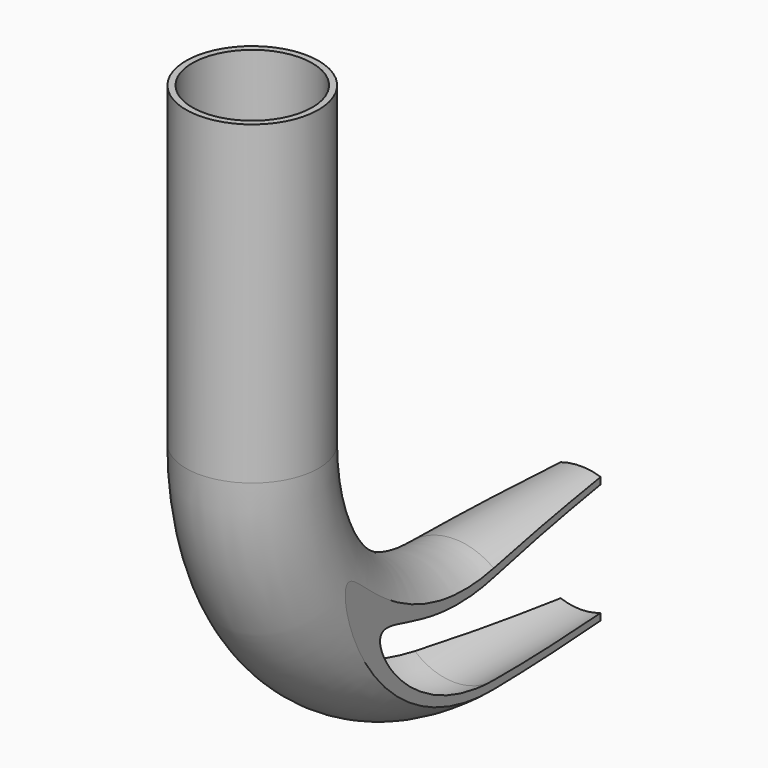
from build123d import *

# Parameters (mm, degrees)
F1_R     = 21
F1_R_2   = 19
F3_DEPTH = 100
F4_DEPTH = 50
F7_DEPTH = 100


with BuildPart() as f2:
    # F2: sweep along a path in F0
    with BuildLine(Plane.YZ) as f2_path:
        ThreePointArc((0, -80), (-56.5685424949, -56.5685424949), (-80, 0))
    # F1 (on Top) → F2 (sweep)
    with BuildSketch(Plane.XY):
        with Locations((0, -80.018363893)):
            Circle(F1_R)
        with Locations((0, -80.018363893)):
            Circle(F1_R_2, mode=Mode.SUBTRACT)
    sweep(path=f2_path.line)

    # F3 (add): a face of the model
    f3_faces = [f2.faces().sort_by_distance(p)[0] for p in [
        (-20.4060303038, -80.018363893, 0),
    ]]
    extrude(f3_faces, amount=F3_DEPTH)

    # F4 (add): a face of the model
    f4_faces = [f2.faces().sort_by_distance(p)[0] for p in [
        (-20.4060303038, 0, -80.018363893),
    ]]
    extrude(f4_faces, amount=F4_DEPTH)


with BuildPart() as f7:
    # F6 (on face) → F7 (new body, symmetric)
    with BuildSketch(Plane.XY.offset(-80.018363893)):
        Polygon((-30.8902455139, -150), (-6.3333333333, 50), (-19, 50), (-50, 50), (-50, -150), align=None)
    extrude(amount=F7_DEPTH, both=True)


with BuildPart() as f8_1:
    # F8: instance of F7
    add(f7.part.mirror(Plane.YZ))


with BuildPart() as f2_1:
    add(f2.part)

    # F9: cut F8_1, F7
    add(f8_1.part, mode=Mode.SUBTRACT)
    add(f7.part, mode=Mode.SUBTRACT)


solid = f2_1.part
